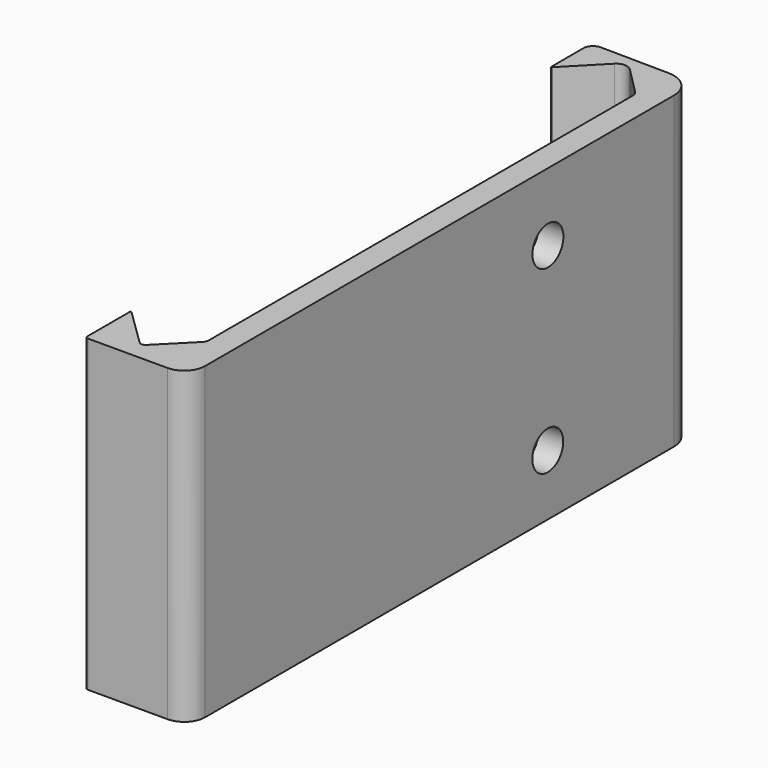
from build123d import *

# Parameters (mm, degrees)
PAD_DEPTH    = 24
SKETCH_R     = 1.5
POCKET_DEPTH = 5


with BuildPart() as part:
    # Sketch002 → Pad (new body)
    with BuildSketch(Plane.XY):
        with BuildLine():
            Line((10.556671, 23.235573), (12.656862, 21.124397))
            ThreePointArc((12.845641, 20.666956), (12.796592, 20.914388), (12.656862, 21.124397))
            Line((12.845641, 20.666956), (12.845641, -20.493586))
            ThreePointArc((12.691003, -20.868422), (12.805464, -20.696326), (12.845641, -20.493586))
            Line((12.691003, -20.868422), (10.268132, -23.3051))
            ThreePointArc((9.74691, -23.308954), (10.008314, -23.414281), (10.268132, -23.3051))
            Line((9.74691, -23.308954), (6.877814, -20.507596))
            ThreePointArc((6.877814, -20.507596), (6.80996, -20.49473), (6.771762, -20.552268))
            Line((6.771762, -20.552268), (6.771762, -24.661169))
            ThreePointArc((6.771762, -24.661169), (6.832076, -24.80678), (6.977688, -24.867095))
            Line((6.977688, -24.867095), (13.162281, -24.867095))
            ThreePointArc((13.162281, -24.867095), (14.305884, -24.393399), (14.77958, -23.249796))
            Line((14.77958, -23.249796), (14.77958, 22.223828))
            ThreePointArc((14.77958, 22.223828), (14.173704, 23.700512), (12.705269, 24.326117))
            Line((12.705269, 24.326117), (7.387288, 24.397368))
            ThreePointArc((7.387288, 24.397368), (6.844792, 24.178762), (6.619818, 23.638875))
            Line((6.619818, 23.638875), (6.624912, 20.517001))
            ThreePointArc((6.624912, 20.517001), (6.645107, 20.487042), (6.680477, 20.494409))
            Line((6.680477, 20.494409), (9.354538, 23.230274))
            ThreePointArc((10.556671, 23.235573), (9.954496, 23.484367), (9.354538, 23.230274))
        make_face()
    extrude(amount=PAD_DEPTH)

    # Sketch → Pocket (cut)
    with BuildSketch(Plane.YZ.offset(14.77958)):
        with Locations((9.996471, 4.725631)):
            Circle(SKETCH_R)
        with Locations((10.01284, 18.715395)):
            Circle(SKETCH_R)
    extrude(amount=-POCKET_DEPTH, mode=Mode.SUBTRACT)


solid = part.part
